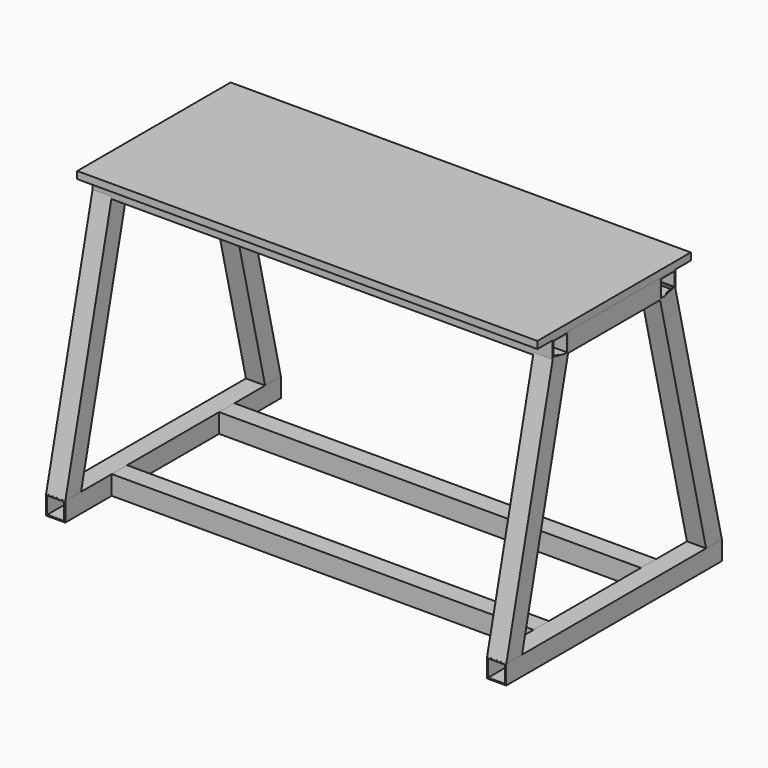
from build123d import *

# Parameters (mm, degrees)
F0_W      = 1219.2
F0_H      = 508
F1_DEPTH  = 19.05
F2_W      = 50.8
F2_H      = 50.8
F2_W_2    = 44.704
F2_H_2    = 44.704
F3_DEPTH  = 1219.2
F4_W      = 50.8
F4_H      = 50.8
F4_W_2    = 44.704
F4_H_2    = 44.704
F5_DEPTH  = 304.8
F9_W      = 50.8
F9_H      = 50.8
F9_W_2    = 44.704
F9_H_2    = 44.704
F10_DEPTH = 671.195
F12_W     = 50.8
F12_H     = 50.8
F12_W_2   = 44.704
F12_H_2   = 44.704
F13_DEPTH = 357.1875
F14_W     = 50.8
F14_H     = 50.8
F14_W_2   = 44.704
F14_H_2   = 44.704
F15_DEPTH = 1117.6


with BuildPart() as f1:
    # F0 (on Top) → F1 (new body)
    with BuildSketch(Plane.XY):
        Rectangle(F0_W, F0_H)
    extrude(amount=F1_DEPTH)


with BuildPart() as f3:
    # F2 (on face) → F3 (new body)
    with BuildSketch(Plane.YZ.offset(609.6)):
        with Locations((177.8, -25.4)):
            Rectangle(F2_W, F2_H)
        with Locations((177.8, -25.4)):
            Rectangle(F2_W_2, F2_H_2, mode=Mode.SUBTRACT)
    extrude(amount=-F3_DEPTH)


with BuildPart() as f3b:
    # F2 (on face) → F3, piece 2 (new body)
    with BuildSketch(Plane.YZ.offset(609.6)):
        with Locations((-177.8, -25.4)):
            Rectangle(F2_W, F2_H)
        with Locations((-177.8, -25.4)):
            Rectangle(F2_W_2, F2_H_2, mode=Mode.SUBTRACT)
    extrude(amount=-F3_DEPTH)

    # F9 (on offset) → F10 (join)
    with BuildSketch(Plane(origin=(0, -19.571498534, -82.3633896637), x_dir=(1, 0, 0), z_dir=(0, -0.2311864096, -0.9729094737))):
        with Locations((584.2, 161.9271341849)):
            Rectangle(F9_W, F9_H)
        with Locations((584.2, 161.9271341849)):
            Rectangle(F9_W_2, F9_H_2, mode=Mode.SUBTRACT)
        with Locations((-584.2, 161.9271341849)):
            Rectangle(F9_W, F9_H)
        with Locations((-584.2, 161.9271341849)):
            Rectangle(F9_W_2, F9_H_2, mode=Mode.SUBTRACT)
    extrude(amount=F10_DEPTH)


with BuildPart() as f5:
    # F4 (on face) → F5 (new body)
    with BuildSketch(Plane(origin=(0, -152.4, 0), x_dir=(-1, 0, 0), z_dir=(0, 1, 0))):
        with Locations((-584.2, -25.4)):
            Rectangle(F4_W, F4_H)
        with Locations((-584.2, -25.4)):
            Rectangle(F4_W_2, F4_H_2, mode=Mode.SUBTRACT)
    extrude(amount=F5_DEPTH)


with BuildPart() as f5b:
    # F4 (on face) → F5, piece 2 (new body)
    with BuildSketch(Plane(origin=(0, -152.4, 0), x_dir=(-1, 0, 0), z_dir=(0, 1, 0))):
        with Locations((584.2, -25.4)):
            Rectangle(F4_W, F4_H)
        with Locations((584.2, -25.4)):
            Rectangle(F4_W_2, F4_H_2, mode=Mode.SUBTRACT)
    extrude(amount=F5_DEPTH)


with BuildPart() as f11_1:
    # F11: instance of F3b
    add(f3b.part.mirror(Plane.XZ))


with BuildPart() as f13:
    # F12 (on Front) → F13 (new body, symmetric)
    with BuildSketch(Plane.XZ):
        with Locations((584.2, -717.4678762938)):
            Rectangle(F12_W, F12_H)
        with Locations((584.2, -717.4678762938)):
            Rectangle(F12_W_2, F12_H_2, mode=Mode.SUBTRACT)
    extrude(amount=F13_DEPTH, both=True)


with BuildPart() as f13b:
    # F12 (on Front) → F13, piece 2 (new body, symmetric)
    with BuildSketch(Plane.XZ):
        with Locations((-584.2, -717.4678762938)):
            Rectangle(F12_W, F12_H)
        with Locations((-584.2, -717.4678762938)):
            Rectangle(F12_W_2, F12_H_2, mode=Mode.SUBTRACT)
    extrude(amount=F13_DEPTH, both=True)


with BuildPart() as f15:
    # F14 (on face) → F15 (new body)
    with BuildSketch(Plane(origin=(558.8, 0, 0), x_dir=(0, -1, 0), z_dir=(-1, 0, 0))):
        with Locations((-177.8, -717.4678762938)):
            Rectangle(F14_W, F14_H)
        with Locations((-177.8, -717.4678762938)):
            Rectangle(F14_W_2, F14_H_2, mode=Mode.SUBTRACT)
    extrude(amount=F15_DEPTH)


with BuildPart() as f15b:
    # F14 (on face) → F15, piece 2 (new body)
    with BuildSketch(Plane(origin=(558.8, 0, 0), x_dir=(0, -1, 0), z_dir=(-1, 0, 0))):
        with Locations((177.8, -717.4678762938)):
            Rectangle(F14_W, F14_H)
        with Locations((177.8, -717.4678762938)):
            Rectangle(F14_W_2, F14_H_2, mode=Mode.SUBTRACT)
    extrude(amount=F15_DEPTH)


solid = Compound([f1.part, f3.part, f3b.part, f5.part, f5b.part, f11_1.part, f13.part, f13b.part, f15.part, f15b.part])
